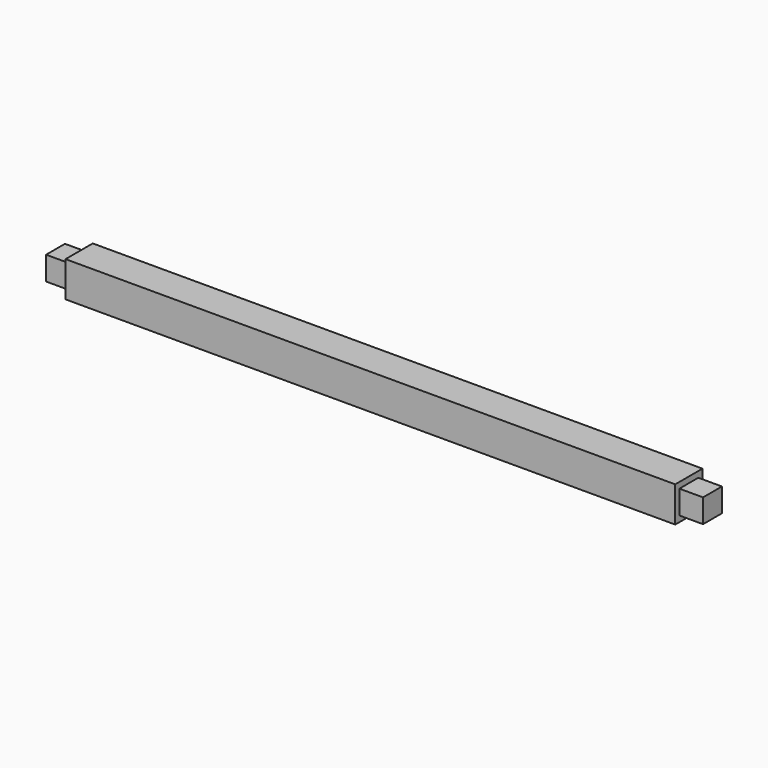
from build123d import *

# Parameters (mm, degrees)
F0_W     = 1290
F0_H     = 75
F1_DEPTH = 72
F2_W     = 50
F2_H     = 50
F3_DEPTH = 50
F4_W     = 50
F4_H     = 50
F5_DEPTH = 50


with BuildPart() as f1:
    # F0 (on Front) → F1 (new body)
    with BuildSketch(Plane.XZ):
        with Locations((498.112862, 5.05404)):
            Rectangle(F0_W, F0_H)
    extrude(amount=F1_DEPTH)

    # F2 (on face) → F3 (join)
    with BuildSketch(Plane.YZ.offset(1143.112862)):
        with Locations((-36, 5.05404)):
            Rectangle(F2_W, F2_H)
    extrude(amount=F3_DEPTH)

    # F4 (on face) → F5 (join)
    with BuildSketch(Plane(origin=(-146.887138, 0, 0), x_dir=(0, -1, 0), z_dir=(-1, 0, 0))):
        with Locations((36, 5.05404)):
            Rectangle(F4_W, F4_H)
    extrude(amount=F5_DEPTH)


solid = f1.part
